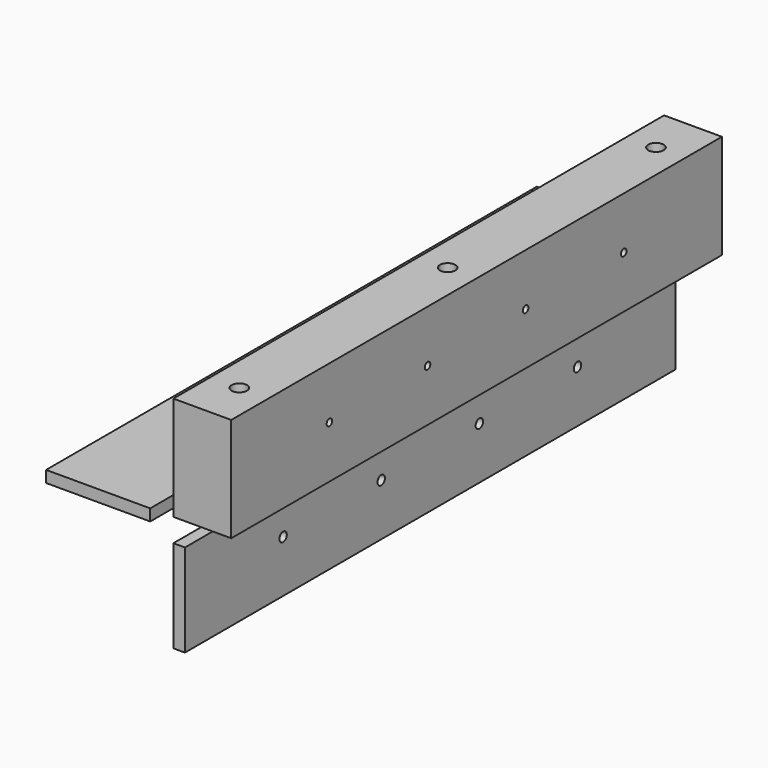
from build123d import *

# Parameters (mm, degrees)
F0_W            = 31.75
F0_H            = 57.15
F1_DEPTH        = 336.55
F3_D            = 8.4328
F3_DEPTH        = 25.4
F3_TIP          = 2.5334687141
F5_D            = 3.7973
F5_DEPTH        = 25.4
F5_TIP          = 1.1408240143
F6_W            = 336.55
F6_H            = 50.8
F7_DEPTH        = 6.35
F8_D            = 5.1054
F8_DEPTH        = 25.4
F8_CSINK_D      = 10.4394
F8_CSINK_ANGLE  = 82
F8_TIP          = 1.5338169022
F9_W            = 57.15
F9_H            = 336.55
F10_DEPTH       = 6.35
F11_D           = 5.1054
F11_DEPTH       = 25.4
F11_CSINK_D     = 10.4394
F11_CSINK_ANGLE = 82
F11_TIP         = 1.5338169022


with BuildPart() as f1:
    # F0 (on Front) → F1 (new body)
    with BuildSketch(Plane.XZ):
        with Locations((15.875, 28.575)):
            Rectangle(F0_W, F0_H)
    extrude(amount=F1_DEPTH)

    # F3
    with Locations(Plane.XY.offset(57.15)):
        with Locations((15.875, -25.4), (15.875, -168.275), (15.875, -311.15)):
            Hole(F3_D / 2, depth=F3_DEPTH)
            with Locations((0, 0, -(F3_DEPTH + F3_TIP / 2))):  # 118° drill point
                Cone(0, F3_D / 2, F3_TIP, mode=Mode.SUBTRACT)

    # F5
    with Locations(Plane.YZ.offset(31.75)):
        with Locations((-67.31, 28.575), (-134.62, 28.575), (-201.93, 28.575), (-269.24, 28.575)):
            Hole(F5_D / 2, depth=F5_DEPTH)
            with Locations((0, 0, -(F5_DEPTH + F5_TIP / 2))):  # 118° drill point
                Cone(0, F5_D / 2, F5_TIP, mode=Mode.SUBTRACT)


with BuildPart() as f7:
    # F6 (on Right) → F7 (new body)
    with BuildSketch(Plane.YZ):
        with Locations((-168.275, -38.1)):
            Rectangle(F6_W, F6_H)
    extrude(amount=F7_DEPTH)

    # F8
    with Locations(Plane(origin=(0, 0, 0), x_dir=(0, 1, 0), z_dir=(-1, 0, 0))):
        with Locations((-269.24, 34.925), (-201.93, 34.925), (-134.62, 34.925), (-67.31, 34.925)):
            CounterSinkHole(F8_D / 2, F8_CSINK_D / 2, depth=F8_DEPTH, counter_sink_angle=F8_CSINK_ANGLE)
            with Locations((0, 0, -(F8_DEPTH + F8_TIP / 2))):  # 118° drill point
                Cone(0, F8_D / 2, F8_TIP, mode=Mode.SUBTRACT)


with BuildPart() as f10:
    # F9 (on Top) → F10 (new body)
    with BuildSketch(Plane.XY):
        with Locations((-41.275, -168.275)):
            Rectangle(F9_W, F9_H)
    extrude(amount=-F10_DEPTH)

    # F11
    with Locations(Plane.XY):
        with Locations((-41.275, -67.31), (-41.275, -134.62), (-41.275, -201.93), (-41.275, -269.24)):
            CounterSinkHole(F11_D / 2, F11_CSINK_D / 2, depth=F11_DEPTH, counter_sink_angle=F11_CSINK_ANGLE)
            with Locations((0, 0, -(F11_DEPTH + F11_TIP / 2))):  # 118° drill point
                Cone(0, F11_D / 2, F11_TIP, mode=Mode.SUBTRACT)


solid = Compound([f1.part, f7.part, f10.part])
